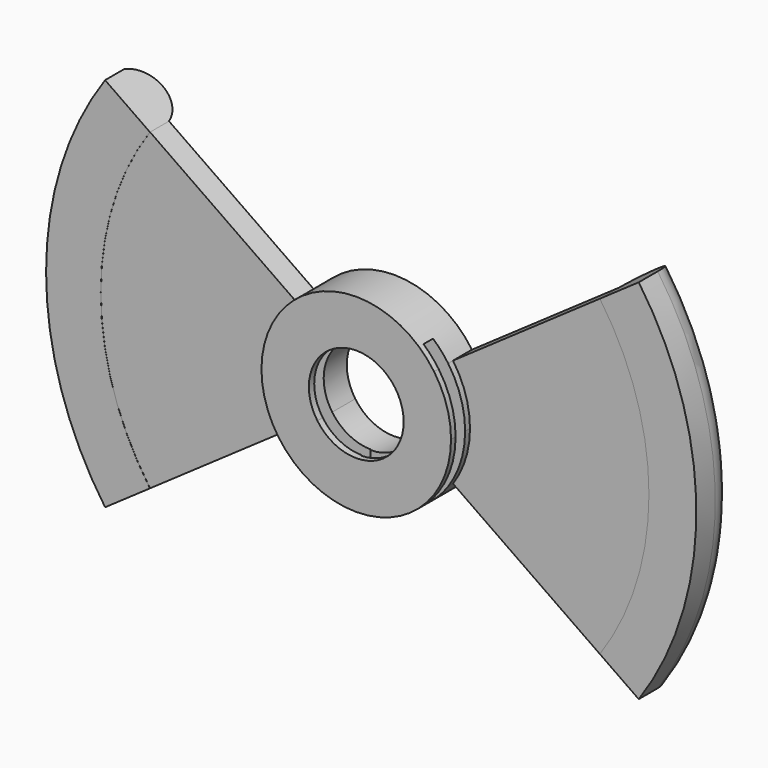
from build123d import *

# Parameters (mm, degrees)
F1_DEPTH  = 6.35
F2_DEPTH  = 12.7
F7_W      = 12.7
F7_H      = 6.35
F9_W      = 3.1940120037
F9_H      = 38.1
F10_DEPTH = 38.1
F11_W     = 3.175
F11_H     = 38.1
F12_DEPTH = 38.1


with BuildPart() as f1:
    # F0 (on Front) → F1 (new body)
    with BuildSketch(Plane.XZ):
        with BuildLine():
            ThreePointArc((-20.8445558889, -14.5142857143), (-25.4, 0), (-20.8445558889, 14.5142857143))
            Line((-20.8445558889, 14.5142857143), (-62.5336676666, 43.5428571429))
            ThreePointArc((-62.5336676666, 43.5428571429), (-76.2, 0), (-62.5336676666, -43.5428571429))
            Line((-62.5336676666, -43.5428571429), (-20.8445558889, -14.5142857143))
        make_face()
    extrude(amount=F1_DEPTH)


with BuildPart() as f1b:
    # F0 (on Front) → F1, piece 2 (new body)
    with BuildSketch(Plane.XZ):
        with BuildLine():
            ThreePointArc((20.8445558889, 14.5142857143), (24.2343941494, 7.6061909134), (25.4, 0))
            ThreePointArc((25.4, 0), (24.2343941494, -7.6061909134), (20.8445558889, -14.5142857143))
            Line((20.8445558889, -14.5142857143), (62.5336676666, -43.5428571429))
            ThreePointArc((62.5336676666, -43.5428571429), (76.2, 0), (62.5336676666, 43.5428571429))
            Line((62.5336676666, 43.5428571429), (20.8445558889, 14.5142857143))
        make_face()
    extrude(amount=F1_DEPTH)


with BuildPart() as f2:
    # F0 (on Front) → F2 (new body)
    with BuildSketch(Plane.XZ):
        with BuildLine():
            Line((10.4222779444, 7.2571428571), (20.8445558889, 14.5142857143))
            ThreePointArc((20.8445558889, 14.5142857143), (0, 25.4), (-20.8445558889, 14.5142857143))
            Line((-20.8445558889, 14.5142857143), (-10.4222779444, 7.2571428571))
            ThreePointArc((-10.4222779444, 7.2571428571), (0, 12.7), (10.4222779444, 7.2571428571))
        make_face()
        with BuildLine():
            Line((-10.4222779444, 7.2571428571), (-20.8445558889, 14.5142857143))
            ThreePointArc((-20.8445558889, 14.5142857143), (-25.4, 0), (-20.8445558889, -14.5142857143))
            Line((-20.8445558889, -14.5142857143), (-10.4222779444, -7.2571428571))
            ThreePointArc((-10.4222779444, -7.2571428571), (-12.7, 0), (-10.4222779444, 7.2571428571))
        make_face()
        with BuildLine():
            ThreePointArc((-20.8445558889, -14.5142857143), (0, -25.4), (20.8445558889, -14.5142857143))
            Line((20.8445558889, -14.5142857143), (10.4222779444, -7.2571428571))
            ThreePointArc((10.4222779444, -7.2571428571), (0, -12.7), (-10.4222779444, -7.2571428571))
            Line((-10.4222779444, -7.2571428571), (-20.8445558889, -14.5142857143))
        make_face()
        with BuildLine():
            ThreePointArc((20.8445558889, -14.5142857143), (24.2343941494, -7.6061909134), (25.4, 0))
            ThreePointArc((25.4, 0), (24.2343941494, 7.6061909134), (20.8445558889, 14.5142857143))
            Line((20.8445558889, 14.5142857143), (10.4222779444, 7.2571428571))
            ThreePointArc((10.4222779444, 7.2571428571), (12.1171970747, 3.8030954567), (12.7, 0))
            ThreePointArc((12.7, 0), (12.1171970747, -3.8030954567), (10.4222779444, -7.2571428571))
            Line((10.4222779444, -7.2571428571), (20.8445558889, -14.5142857143))
        make_face()
    extrude(amount=F2_DEPTH)

    # F9 (on Right) → F10 (cut)
    with BuildSketch(Plane.YZ):
        with Locations((-9.5754200593, 0)):
            Rectangle(F9_W, F9_H)
    extrude(amount=F10_DEPTH, mode=Mode.SUBTRACT)

    # F11 (on Right) → F12 (cut)
    with BuildSketch(Plane.YZ):
        with Locations((-9.3214936979, -0.5436593175)):
            Rectangle(F11_W, F11_H)
    extrude(amount=-F12_DEPTH, mode=Mode.SUBTRACT)


with BuildPart() as f5:
    # F5: sweep along a path in F0
    with BuildLine(Plane.XZ) as f5_path:
        ThreePointArc((-62.5336676666, 43.5428571429), (-76.2, 0), (-62.5336676666, -43.5428571429))
    # F4 (on 3pt) → F5 (sweep)
    with BuildSketch(Plane(origin=(0, 0, 0), x_dir=(0.8206518066, 0, -0.5714285714), z_dir=(0.5714285714, 0, 0.8206518066))):
        with BuildLine():
            Line((-88.1760641932, -6.3813449815), (-73.5275670886, -6.3813449815))
            Line((-73.5275670886, -6.3813449815), (-73.5275670886, 0))
            ThreePointArc((-73.5275670886, 0), (-80.8518156409, 5.351971968), (-88.1760641932, 0))
            Line((-88.1760641932, 0), (-88.1760641932, -6.3813449815))
        make_face()
    sweep(path=f5_path.line)


with BuildPart() as f8:
    # F8: sweep along a path in F8_path
    with BuildLine(Plane(origin=(62.5336676666, -6.35, -43.5428571429), x_dir=(0, 0, -1), z_dir=(0, 1, 0))) as f8_path:
        ThreePointArc((0, 0), (-43.5428571429, -13.6663323334), (-87.0857142857, 0))
    # F7 (on 3pt) → F8 (sweep)
    with BuildSketch(Plane(origin=(0, 0, 0), x_dir=(0.8206518066, 0, 0.5714285714), z_dir=(0.5714285714, 0, -0.8206518066))):
        with Locations((79.7099364758, 3.175)):
            Rectangle(F7_W, F7_H)
        with BuildLine():
            ThreePointArc((73.3599364758, 0), (79.7099364758, -6.35), (86.0599364758, 0))
            Line((86.0599364758, 0), (73.3599364758, 0))
        make_face()
    sweep(path=f8_path.line)


solid = Compound([f1.part, f1b.part, f2.part, f5.part, f8.part])
